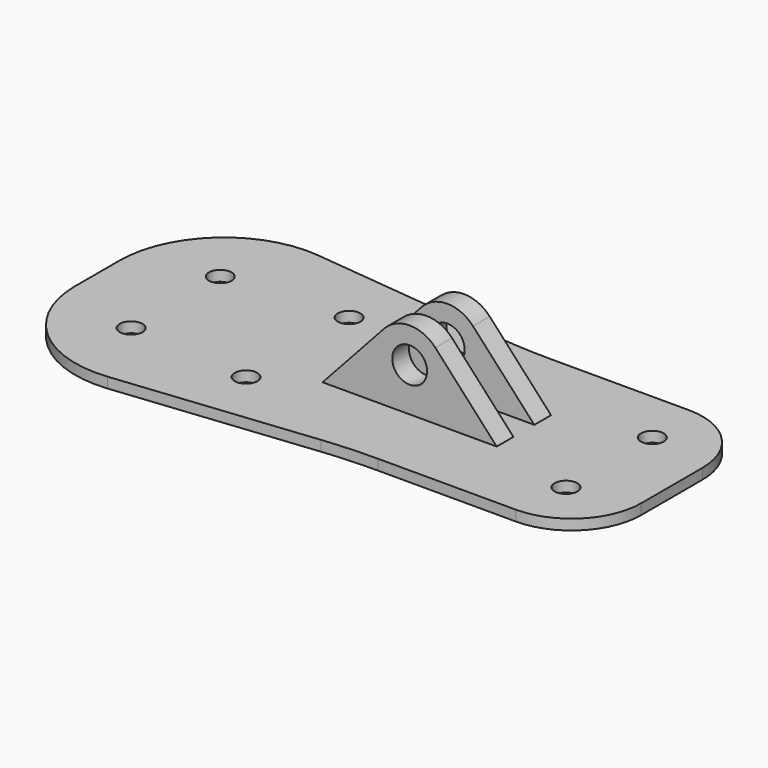
from build123d import *

# Parameters (mm, degrees)
F1_DEPTH  = 6
F2_R      = 60
F3_R      = 40
F4_R      = 300
F8_R      = 10
F10_DEPTH = 12
F9_R      = 10
F11_DEPTH = 12
F12_R     = 6.5
F13_DEPTH = 25


with BuildPart() as f1:
    # F0 (on Top) → F1 (new body)
    with BuildSketch(Plane.XY):
        Polygon((101.865418, 62.004674), (-93.134582, 82.5), (-93.134582, -82.5), (101.865418, -62.004674), (236.865418, -62.004674), (236.865418, 62.004674), align=None)
    extrude(amount=F1_DEPTH)

    # F2
    f2_edges = [f1.edges().sort_by_distance(p)[0] for p in [
        (-93.134582, -82.5, 3),
        (-93.134582, 82.5, 3),
    ]]
    fillet(f2_edges, radius=F2_R)

    # F3
    f3_edges = [f1.edges().sort_by_distance(p)[0] for p in [
        (236.865418, -62.004674, 3),
        (236.865418, 62.004674, 3),
    ]]
    fillet(f3_edges, radius=F3_R)

    # F4
    f4_edges = [f1.edges().sort_by_distance(p)[0] for p in [
        (101.865418, -62.004674, 3),
        (101.865418, 62.004674, 3),
    ]]
    fillet(f4_edges, radius=F4_R)

    # F8 (on offset) → F10 (join)
    with BuildSketch(Plane.XZ.offset(-7.5)):
        with BuildLine():
            Line((151.865418, 6), (116.617663, 44.50449))
            ThreePointArc((116.617663, 44.50449), (101.865418, 51), (87.113173, 44.50449))
            Line((87.113173, 44.50449), (51.865418, 6))
            Line((51.865418, 6), (86.229213, 6))
            Line((86.229213, 6), (151.865418, 6))
        make_face()
        with Locations((101.865418, 31)):
            Circle(F8_R, mode=Mode.SUBTRACT)
    extrude(amount=-F10_DEPTH)

    # F9 (on offset) → F11 (join)
    with BuildSketch(Plane.XZ.offset(7.5)):
        with BuildLine():
            Line((151.865418, 6), (116.617663, 44.50449))
            ThreePointArc((116.617663, 44.50449), (101.865418, 51), (87.113173, 44.50449))
            Line((87.113173, 44.50449), (51.865418, 6))
            Line((51.865418, 6), (86.229213, 6))
            Line((86.229213, 6), (151.865418, 6))
        make_face()
        with Locations((101.865418, 31)):
            Circle(F9_R, mode=Mode.SUBTRACT)
    extrude(amount=F11_DEPTH)

    # F12 (on face) → F13 (cut)
    with BuildSketch(Plane.XY.offset(6)):
        with Locations((200.865418, 31.004674)):
            Circle(F12_R)
        with Locations((200.865418, -31.004674)):
            Circle(F12_R)
        with Locations((21.865418, 37.004674)):
            Circle(F12_R)
        with Locations((-48.134582, 32.004674)):
            Circle(F12_R)
        with Locations((-48.134582, -32.004674)):
            Circle(F12_R)
        with Locations((21.865418, -37.004674)):
            Circle(F12_R)
    extrude(amount=-F13_DEPTH, mode=Mode.SUBTRACT)


solid = f1.part
